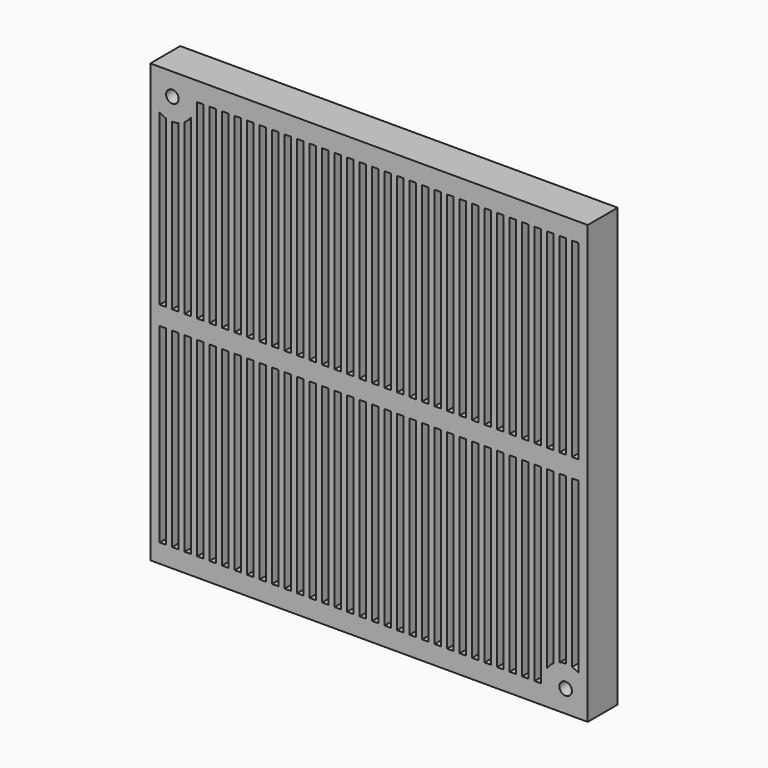
from build123d import *

# Parameters (mm, degrees)
F0_W     = 70
F0_H     = 70
F0_W_2   = 1
F0_H_2   = 30.5
F1_DEPTH = 6
F2_R     = 3.535534
F3_DEPTH = 6
F4_R     = 1
F5_DEPTH = 25


with BuildPart() as f1:
    # F0 (on Front) → F1 (new body)
    with BuildSketch(Plane.XZ):
        with Locations((35, 35)):
            Rectangle(F0_W, F0_H)
        with Locations((2, 18.25)):
            Rectangle(F0_W_2, F0_H_2, mode=Mode.SUBTRACT)
        with Locations((4, 18.25)):
            Rectangle(F0_W_2, F0_H_2, mode=Mode.SUBTRACT)
        with Locations((6, 18.25)):
            Rectangle(F0_W_2, F0_H_2, mode=Mode.SUBTRACT)
        with Locations((8, 18.25)):
            Rectangle(F0_W_2, F0_H_2, mode=Mode.SUBTRACT)
        with Locations((10, 18.25)):
            Rectangle(F0_W_2, F0_H_2, mode=Mode.SUBTRACT)
        with Locations((12, 18.25)):
            Rectangle(F0_W_2, F0_H_2, mode=Mode.SUBTRACT)
        with Locations((14, 18.25)):
            Rectangle(F0_W_2, F0_H_2, mode=Mode.SUBTRACT)
        with Locations((16, 18.25)):
            Rectangle(F0_W_2, F0_H_2, mode=Mode.SUBTRACT)
        with Locations((18, 18.25)):
            Rectangle(F0_W_2, F0_H_2, mode=Mode.SUBTRACT)
        with Locations((20, 18.25)):
            Rectangle(F0_W_2, F0_H_2, mode=Mode.SUBTRACT)
        with Locations((22, 18.25)):
            Rectangle(F0_W_2, F0_H_2, mode=Mode.SUBTRACT)
        with Locations((24, 18.25)):
            Rectangle(F0_W_2, F0_H_2, mode=Mode.SUBTRACT)
        with Locations((26, 18.25)):
            Rectangle(F0_W_2, F0_H_2, mode=Mode.SUBTRACT)
        with Locations((28, 18.25)):
            Rectangle(F0_W_2, F0_H_2, mode=Mode.SUBTRACT)
        with Locations((30, 18.25)):
            Rectangle(F0_W_2, F0_H_2, mode=Mode.SUBTRACT)
        with Locations((32, 18.25)):
            Rectangle(F0_W_2, F0_H_2, mode=Mode.SUBTRACT)
        with Locations((34, 18.25)):
            Rectangle(F0_W_2, F0_H_2, mode=Mode.SUBTRACT)
        with Locations((36, 18.25)):
            Rectangle(F0_W_2, F0_H_2, mode=Mode.SUBTRACT)
        with Locations((38, 18.25)):
            Rectangle(F0_W_2, F0_H_2, mode=Mode.SUBTRACT)
        with Locations((40, 18.25)):
            Rectangle(F0_W_2, F0_H_2, mode=Mode.SUBTRACT)
        with Locations((42, 18.25)):
            Rectangle(F0_W_2, F0_H_2, mode=Mode.SUBTRACT)
        with Locations((44, 18.25)):
            Rectangle(F0_W_2, F0_H_2, mode=Mode.SUBTRACT)
        with Locations((46, 18.25)):
            Rectangle(F0_W_2, F0_H_2, mode=Mode.SUBTRACT)
        with Locations((48, 18.25)):
            Rectangle(F0_W_2, F0_H_2, mode=Mode.SUBTRACT)
        with Locations((50, 18.25)):
            Rectangle(F0_W_2, F0_H_2, mode=Mode.SUBTRACT)
        with Locations((52, 18.25)):
            Rectangle(F0_W_2, F0_H_2, mode=Mode.SUBTRACT)
        with Locations((54, 18.25)):
            Rectangle(F0_W_2, F0_H_2, mode=Mode.SUBTRACT)
        with Locations((56, 18.25)):
            Rectangle(F0_W_2, F0_H_2, mode=Mode.SUBTRACT)
        with Locations((58, 18.25)):
            Rectangle(F0_W_2, F0_H_2, mode=Mode.SUBTRACT)
        with Locations((60, 18.25)):
            Rectangle(F0_W_2, F0_H_2, mode=Mode.SUBTRACT)
        with Locations((62, 18.25)):
            Rectangle(F0_W_2, F0_H_2, mode=Mode.SUBTRACT)
        with Locations((64, 18.25)):
            Rectangle(F0_W_2, F0_H_2, mode=Mode.SUBTRACT)
        with Locations((66, 18.25)):
            Rectangle(F0_W_2, F0_H_2, mode=Mode.SUBTRACT)
        with Locations((68, 18.25)):
            Rectangle(F0_W_2, F0_H_2, mode=Mode.SUBTRACT)
        with Locations((2, 51.75)):
            Rectangle(F0_W_2, F0_H_2, mode=Mode.SUBTRACT)
        with Locations((4, 51.75)):
            Rectangle(F0_W_2, F0_H_2, mode=Mode.SUBTRACT)
        with Locations((6, 51.75)):
            Rectangle(F0_W_2, F0_H_2, mode=Mode.SUBTRACT)
        with Locations((8, 51.75)):
            Rectangle(F0_W_2, F0_H_2, mode=Mode.SUBTRACT)
        with Locations((10, 51.75)):
            Rectangle(F0_W_2, F0_H_2, mode=Mode.SUBTRACT)
        with Locations((12, 51.75)):
            Rectangle(F0_W_2, F0_H_2, mode=Mode.SUBTRACT)
        with Locations((14, 51.75)):
            Rectangle(F0_W_2, F0_H_2, mode=Mode.SUBTRACT)
        with Locations((16, 51.75)):
            Rectangle(F0_W_2, F0_H_2, mode=Mode.SUBTRACT)
        with Locations((18, 51.75)):
            Rectangle(F0_W_2, F0_H_2, mode=Mode.SUBTRACT)
        with Locations((20, 51.75)):
            Rectangle(F0_W_2, F0_H_2, mode=Mode.SUBTRACT)
        with Locations((22, 51.75)):
            Rectangle(F0_W_2, F0_H_2, mode=Mode.SUBTRACT)
        with Locations((24, 51.75)):
            Rectangle(F0_W_2, F0_H_2, mode=Mode.SUBTRACT)
        with Locations((26, 51.75)):
            Rectangle(F0_W_2, F0_H_2, mode=Mode.SUBTRACT)
        with Locations((28, 51.75)):
            Rectangle(F0_W_2, F0_H_2, mode=Mode.SUBTRACT)
        with Locations((30, 51.75)):
            Rectangle(F0_W_2, F0_H_2, mode=Mode.SUBTRACT)
        with Locations((32, 51.75)):
            Rectangle(F0_W_2, F0_H_2, mode=Mode.SUBTRACT)
        with Locations((34, 51.75)):
            Rectangle(F0_W_2, F0_H_2, mode=Mode.SUBTRACT)
        with Locations((36, 51.75)):
            Rectangle(F0_W_2, F0_H_2, mode=Mode.SUBTRACT)
        with Locations((38, 51.75)):
            Rectangle(F0_W_2, F0_H_2, mode=Mode.SUBTRACT)
        with Locations((40, 51.75)):
            Rectangle(F0_W_2, F0_H_2, mode=Mode.SUBTRACT)
        with Locations((42, 51.75)):
            Rectangle(F0_W_2, F0_H_2, mode=Mode.SUBTRACT)
        with Locations((44, 51.75)):
            Rectangle(F0_W_2, F0_H_2, mode=Mode.SUBTRACT)
        with Locations((46, 51.75)):
            Rectangle(F0_W_2, F0_H_2, mode=Mode.SUBTRACT)
        with Locations((48, 51.75)):
            Rectangle(F0_W_2, F0_H_2, mode=Mode.SUBTRACT)
        with Locations((50, 51.75)):
            Rectangle(F0_W_2, F0_H_2, mode=Mode.SUBTRACT)
        with Locations((52, 51.75)):
            Rectangle(F0_W_2, F0_H_2, mode=Mode.SUBTRACT)
        with Locations((54, 51.75)):
            Rectangle(F0_W_2, F0_H_2, mode=Mode.SUBTRACT)
        with Locations((56, 51.75)):
            Rectangle(F0_W_2, F0_H_2, mode=Mode.SUBTRACT)
        with Locations((58, 51.75)):
            Rectangle(F0_W_2, F0_H_2, mode=Mode.SUBTRACT)
        with Locations((60, 51.75)):
            Rectangle(F0_W_2, F0_H_2, mode=Mode.SUBTRACT)
        with Locations((62, 51.75)):
            Rectangle(F0_W_2, F0_H_2, mode=Mode.SUBTRACT)
        with Locations((64, 51.75)):
            Rectangle(F0_W_2, F0_H_2, mode=Mode.SUBTRACT)
        with Locations((66, 51.75)):
            Rectangle(F0_W_2, F0_H_2, mode=Mode.SUBTRACT)
        with Locations((68, 51.75)):
            Rectangle(F0_W_2, F0_H_2, mode=Mode.SUBTRACT)
    extrude(amount=F1_DEPTH)

    # F2 (on face) → F3 (join)
    with BuildSketch(Plane.XZ.offset(6)):
        with Locations((3.535534, 66.464466)):
            Circle(F2_R)
        with Locations((66.464466, 3.535534)):
            Circle(F2_R)
    extrude(amount=-F3_DEPTH)

    # F4 (on face) → F5 (cut)
    with BuildSketch(Plane.XZ.offset(6)):
        with Locations((3.535534, 66.464466)):
            Circle(F4_R)
        with Locations((66.464466, 3.535534)):
            Circle(F4_R)
    extrude(amount=-F5_DEPTH, mode=Mode.SUBTRACT)


solid = f1.part
